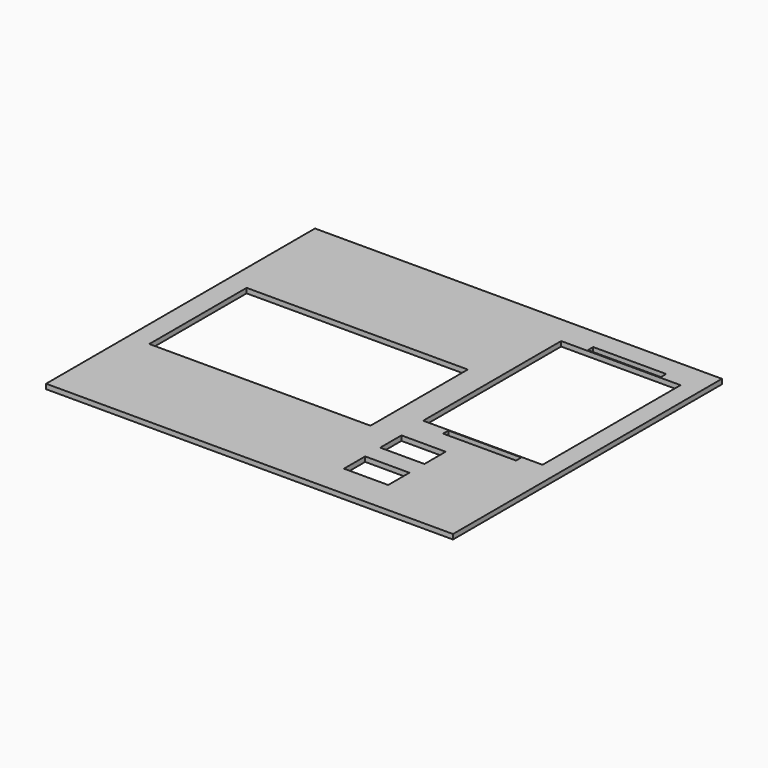
from build123d import *

# Parameters (mm, degrees)
SKETCH_W      = 184
SKETCH_H      = 152
PAD_DEPTH     = 2.2
SKETCH001_W   = 54
SKETCH001_H   = 78
SKETCH001_W_2 = 100
SKETCH001_H_2 = 55
SKETCH001_W_3 = 20
SKETCH001_H_3 = 12
SKETCH001_W_4 = 33
SKETCH001_H_4 = 3
POCKET_DEPTH  = 11


with BuildPart() as part:
    # Sketch → Pad (new body)
    with BuildSketch(Plane.XY):
        with Locations((27.674357, -22.835765)):
            Rectangle(SKETCH_W, SKETCH_H)
    extrude(amount=PAD_DEPTH)

    # Sketch001 (on Face6 of Pad) → Pocket (cut)
    with BuildSketch(Plane.XY.offset(2.2)):
        with Locations((84.309767, 1.24181)):
            Rectangle(SKETCH001_W, SKETCH001_H)
        with Locations((-4.819982, -24.864846)):
            Rectangle(SKETCH001_W_2, SKETCH001_H_2)
        with Locations((68.337693, -57.316254)):
            Rectangle(SKETCH001_W_3, SKETCH001_H_3)
        with Locations((68.387184, -77.864601)):
            Rectangle(SKETCH001_W_3, SKETCH001_H_3)
        with Locations((85.51463, 42.239102)):
            Rectangle(SKETCH001_W_4, SKETCH001_H_4)
        with Locations((85.487845, -39.579292)):
            Rectangle(SKETCH001_W_4, SKETCH001_H_4)
    extrude(amount=-POCKET_DEPTH, mode=Mode.SUBTRACT)


solid = part.part
